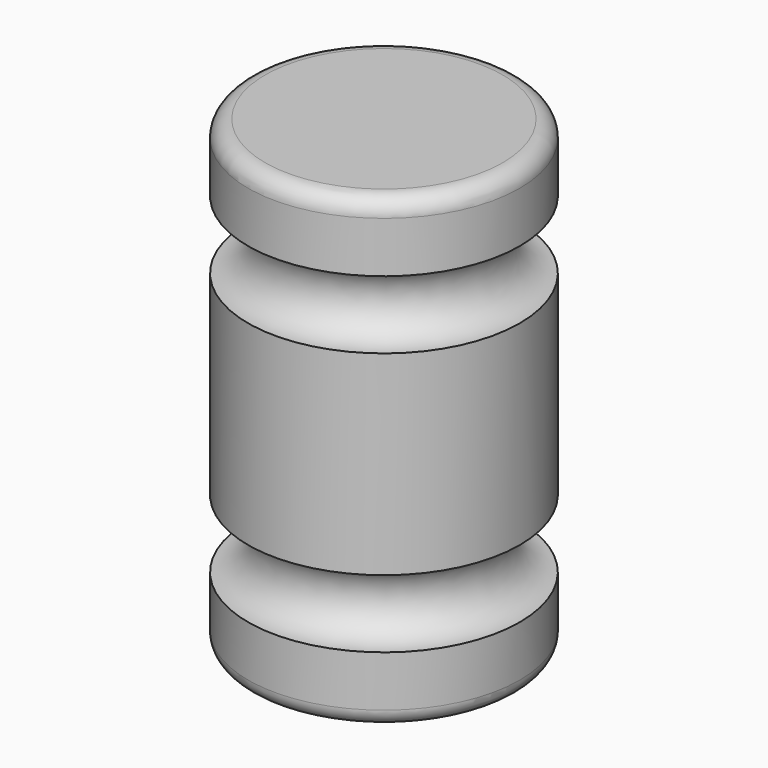
from build123d import *

# Parameters (mm, degrees)
F2_R = 2.54


with BuildPart() as f1:
    # F0 (on Front) → F1 (revolve)
    with BuildSketch(Plane.XZ):
        with BuildLine():
            Line((-20.32, 0), (0, 0))
            Line((0, 0), (0, 10.16))
            ThreePointArc((0, 10.16), (-5.08, 15.24), (0, 20.32))
            Line((0, 20.32), (0, 49.53))
            ThreePointArc((0, 49.53), (-5.08, 54.61), (0, 59.69))
            Line((0, 59.69), (0, 69.85))
            Line((0, 69.85), (-20.32, 69.85))
            Line((-20.32, 69.85), (-20.32, 0))
        make_face()
    revolve(axis=Axis((-20.32, 0, 34.925), (0, 0, 1)))

    # F2
    f2_edges = [f1.edges().sort_by_distance(p)[0] for p in [
        (-40.64, 0, 69.85),
        (-40.64, 0, 0),
    ]]
    fillet(f2_edges, radius=F2_R)


solid = f1.part
